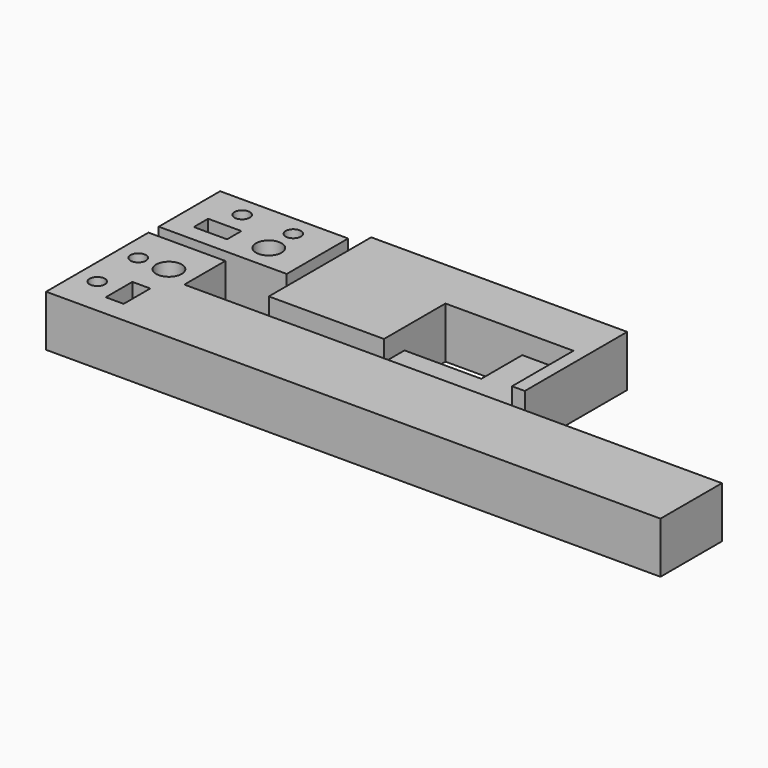
from build123d import *

# Parameters (mm, degrees)
SKETCH001_W     = 50
SKETCH001_H     = 30
PAD001_DEPTH    = 20
SKETCH004_R     = 5
SKETCH004_R_2   = 3
SKETCH004_W     = 13
SKETCH004_H     = 7
POCKET001_DEPTH = 20
SKETCH002_W     = 100
SKETCH002_H     = 50
PAD002_DEPTH    = 20
SKETCH005_W     = 50
SKETCH005_H     = 30
POCKET002_DEPTH = 8
SKETCH006_W     = 30
SKETCH006_H     = 20
POCKET003_DEPTH = 12
PAD_DEPTH       = 20
SKETCH003_R     = 5
SKETCH003_R_2   = 3
SKETCH003_W     = 7
SKETCH003_H     = 13
POCKET_DEPTH    = 20


with BuildPart() as body001:
    # Sketch001 → Pad001 (new body)
    with BuildSketch(Plane.XY):
        with Locations((30, 120)):
            Rectangle(SKETCH001_W, SKETCH001_H)
    extrude(amount=PAD001_DEPTH)

    # Sketch004 (on Face6 of Pad001) → Pocket001 (cut)
    with BuildSketch(Plane.XY.offset(20)):
        with Locations((40, 115)):
            Circle(SKETCH004_R)
        with Locations((20, 127)):
            Circle(SKETCH004_R_2)
        with Locations((40, 127)):
            Circle(SKETCH004_R_2)
        with Locations((20, 115)):
            Rectangle(SKETCH004_W, SKETCH004_H)
    extrude(amount=-POCKET001_DEPTH, mode=Mode.SUBTRACT)


with BuildPart() as body001_1:
    # Body001 placement: moved
    add(body001.part.moved(Location((-24.5, -17, 0))))


with BuildPart() as body002:
    # Sketch002 → Pad002 (new body)
    with BuildSketch(Plane.XY):
        with Locations((110, 115)):
            Rectangle(SKETCH002_W, SKETCH002_H)
    extrude(amount=PAD002_DEPTH)

    # Sketch005 (on Face6 of Pad002) → Pocket002 (cut)
    with BuildSketch(Plane.XY.offset(20)):
        with Locations((130, 105)):
            Rectangle(SKETCH005_W, SKETCH005_H)
    extrude(amount=-POCKET002_DEPTH, mode=Mode.SUBTRACT)

    # Sketch006 (on Face6 of Pocket002) → Pocket003 (cut)
    with BuildSketch(Plane.XY.offset(12)):
        with Locations((120, 110)):
            Rectangle(SKETCH006_W, SKETCH006_H)
    extrude(amount=-POCKET003_DEPTH, mode=Mode.SUBTRACT)


with BuildPart() as body002_1:
    # Body002 placement: moved
    add(body002.part.moved(Location((-24.5, -17, 0))))


with BuildPart() as fusion:
    # Sketch → Pad (new body)
    with BuildSketch(Plane.XY):
        Polygon((5, 50), (5, 100), (35, 100), (35, 80), (245, 80), (245, 50), align=None)
    extrude(amount=PAD_DEPTH)

    # Sketch003 (on Face8 of Pad) → Pocket (cut)
    with BuildSketch(Plane.XY.offset(20)):
        with Locations((25, 85)):
            Circle(SKETCH003_R)
        with Locations((13, 85)):
            Circle(SKETCH003_R_2)
        with Locations((13, 65)):
            Circle(SKETCH003_R_2)
        with Locations((25, 65)):
            Rectangle(SKETCH003_W, SKETCH003_H)
    extrude(amount=-POCKET_DEPTH, mode=Mode.SUBTRACT)


with BuildPart() as fusion_1:
    # Body placement: moved
    add(fusion.part.moved(Location((-24.5, -17, 0))))

    # Fusion: union Body001, Body002
    add(body001_1.part)
    add(body002_1.part)


with BuildPart() as fusion_2:
    # Fusion placement: moved
    add(fusion_1.part.moved(Location((-29.5, -67, -20))))


solid = fusion_2.part
